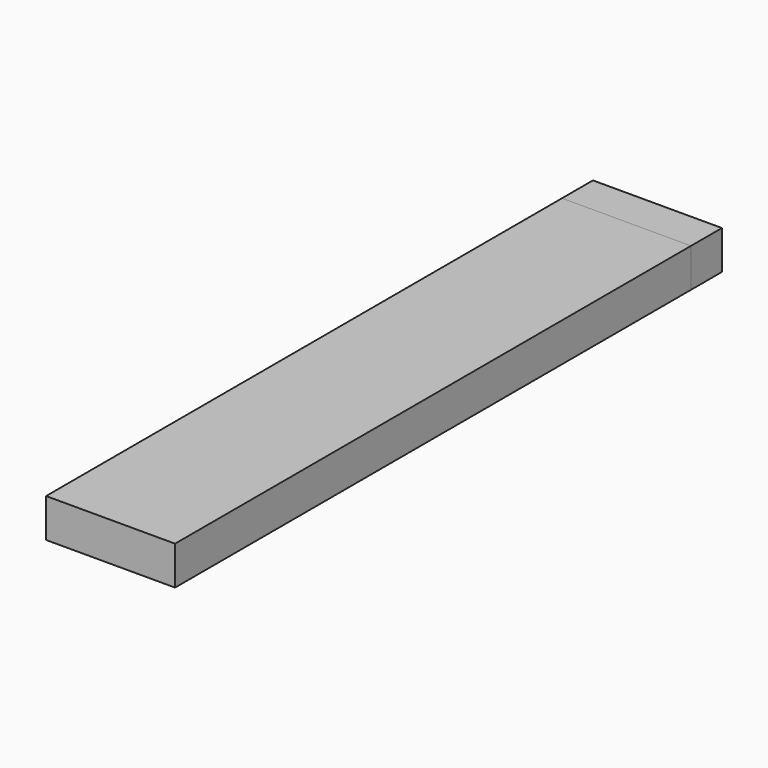
from build123d import *

# Parameters (mm, degrees)
F0_W     = 10
F0_H     = 3
F1_DEPTH = 3
F2_DEPTH = 50


with BuildPart() as f1:
    # F0 (on Front) → F1 (new body)
    with BuildSketch(Plane.XZ):
        Rectangle(F0_W, F0_H)
    extrude(amount=-F1_DEPTH)


with BuildPart() as f2:
    # F0 (on Front) → F2 (new body)
    with BuildSketch(Plane.XZ):
        Rectangle(F0_W, F0_H)
    extrude(amount=F2_DEPTH)


solid = Compound([f1.part, f2.part])
